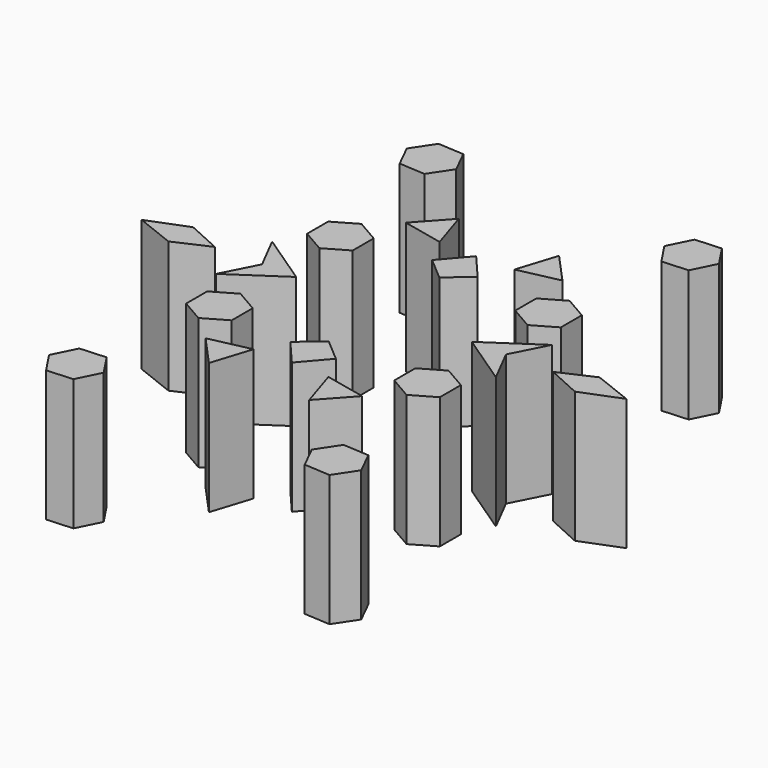
from build123d import *

# Parameters (mm, degrees)
F2_DEPTH = 25


with BuildPart() as f2:
    # F1 (on face) → F2 (new body)
    with BuildSketch(Plane.XY):
        Polygon((-22.546954, 37.794926), (-19.803537, 41.927803), (-22.011005, 46.37011), (-26.96189, 46.67954), (-29.705307, 42.546663), (-27.497838, 38.104356), align=None)
        Polygon((-19.803537, -41.927803), (-22.546954, -37.794926), (-27.497838, -38.104356), (-29.705307, -42.546663), (-26.96189, -46.67954), (-22.011005, -46.37011), align=None)
        Polygon((19.803537, 41.927803), (22.546954, 37.794926), (27.497838, 38.104356), (29.705307, 42.546663), (26.96189, 46.67954), (22.011005, 46.37011), align=None)
        Polygon((27.497838, -38.104356), (22.546954, -37.794926), (19.803537, -41.927803), (22.011005, -46.37011), (26.96189, -46.67954), (29.705307, -42.546663), align=None)
        Polygon((-15.471513, 11.887412), (-15.471513, 16.889602), (-19.803537, 19.390697), (-24.135561, 16.889602), (-24.135561, 11.887412), (-19.803537, 9.386317), align=None)
        Polygon((-14.902241, 23.817999), (-7.116897, 22.124264), (-9.542752, 29.713437), align=None)
        Polygon((9.542752, 29.713437), (7.116897, 22.124264), (14.902241, 23.817999), align=None)
        Polygon((15.471513, 11.887412), (19.803537, 9.386317), (24.135561, 11.887412), (24.135561, 16.889602), (19.803537, 19.390697), (15.471513, 16.889602), align=None)
        Polygon((14.902241, -23.817999), (7.116897, -22.124264), (9.542752, -29.713437), align=None)
        Polygon((-14.902241, -23.817999), (-9.542752, -29.713437), (-7.116897, -22.124264), align=None)
        Polygon((-24.135561, -16.889602), (-19.803537, -19.390697), (-15.471513, -16.889602), (-15.471513, -11.887412), (-19.803537, -9.386317), (-24.135561, -11.887412), align=None)
        Polygon((15.471513, -16.889602), (19.803537, -19.390697), (24.135561, -16.889602), (24.135561, -11.887412), (19.803537, -9.386317), (15.471513, -11.887412), align=None)
        Polygon((-26.611004, -6.652751), (-16.709235, 0), (-26.611004, 6.652751), (-23.20727, 0), align=None)
        Polygon((-4.332023, 16.86395), (0, 13.150787), (4.332023, 16.86395), (0, 21.917976), align=None)
        Polygon((0, -13.150787), (-4.332023, -16.86395), (0, -21.917976), (4.332023, -16.86395), align=None)
        Polygon((26.611004, 6.652751), (16.709235, 0), (26.611004, -6.652751), (23.20727, 0), align=None)
        Polygon((-38.678784, 2.939587), (-46.105109, 0), (-38.678784, -2.939587), (-32.180749, 0), align=None)
        Polygon((46.105109, 0), (38.678784, 2.939587), (32.180749, 0), (38.678784, -2.939587), align=None)
    extrude(amount=F2_DEPTH)


solid = f2.part
